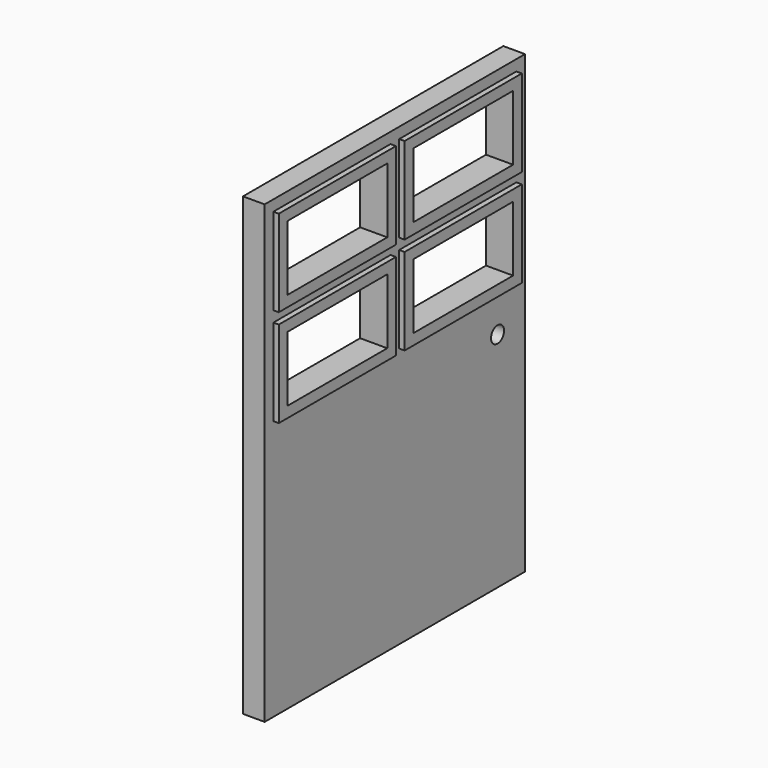
from build123d import *

# Parameters (mm, degrees)
F0_W     = 1524
F0_H     = 2133.6
F1_DEPTH = 101.6
F2_R     = 38.1
F3_DEPTH = 50.8
F2_W     = 584.2
F2_H     = 304.8
F4_DEPTH = 101.601
F2_W_2   = 685.8
F2_H_2   = 406.4
F5_DEPTH = 25.4


with BuildPart() as f1:
    # F0 (on Right) → F1 (new body)
    with BuildSketch(Plane.YZ):
        with Locations((-868.423025, -6872.774788)):
            Rectangle(F0_W, F0_H)
        with Locations((-868.423025, -6872.774788)):
            Rectangle(F0_W, F0_H)
    extrude(amount=F1_DEPTH)

    # F2 (on face) → F3 (cut)
    with BuildSketch(Plane.YZ.offset(101.6)):
        with Locations((-267.193135, -6896.276238)):
            Circle(F2_R)
    extrude(amount=-F3_DEPTH, mode=Mode.SUBTRACT)

    # F2 (on face) → F4 (cut, through all)
    with BuildSketch(Plane.YZ.offset(101.6)):
        with Locations((-500.123025, -6059.974788)):
            Rectangle(F2_W, F2_H)
        with Locations((-1236.723025, -6059.974788)):
            Rectangle(F2_W, F2_H)
        with Locations((-1236.723025, -6517.174788)):
            Rectangle(F2_W, F2_H)
        with Locations((-500.123025, -6517.174788)):
            Rectangle(F2_W, F2_H)
    extrude(amount=-F4_DEPTH, mode=Mode.SUBTRACT)

    # F2 (on face) → F5 (join)
    with BuildSketch(Plane.YZ.offset(101.6)):
        Polygon((-893.823025, -6313.974788), (-1579.623025, -6313.974788), (-1579.623025, -6720.374788), (-1528.823025, -6720.374788), (-893.823025, -6720.374788), align=None)
        with Locations((-1236.723025, -6517.174788)):
            Rectangle(F2_W, F2_H, mode=Mode.SUBTRACT)
        with Locations((-1236.723025, -6059.974788)):
            Rectangle(F2_W_2, F2_H_2)
        with Locations((-1236.723025, -6059.974788)):
            Rectangle(F2_W, F2_H, mode=Mode.SUBTRACT)
        Polygon((-843.023025, -6313.974788), (-843.023025, -6720.374788), (-208.023025, -6720.374788), (-157.223025, -6720.374788), (-157.223025, -6313.974788), align=None)
        with Locations((-500.123025, -6517.174788)):
            Rectangle(F2_W, F2_H, mode=Mode.SUBTRACT)
        with Locations((-500.123025, -6059.974788)):
            Rectangle(F2_W_2, F2_H_2)
        with Locations((-500.123025, -6059.974788)):
            Rectangle(F2_W, F2_H, mode=Mode.SUBTRACT)
    extrude(amount=F5_DEPTH)


solid = f1.part
